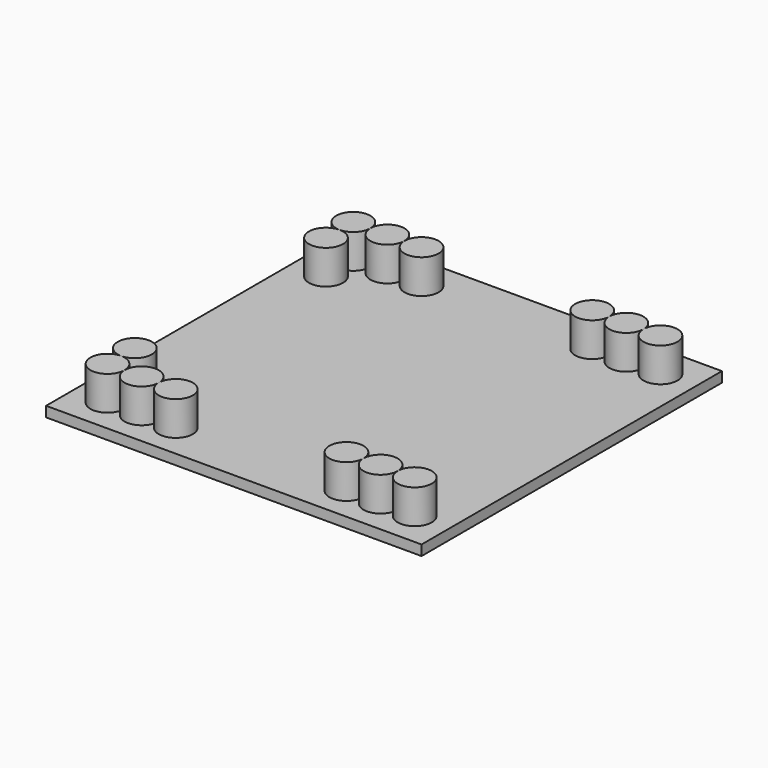
from build123d import *

# Parameters (mm, degrees)
SKETCH_W     = 110
SKETCH_H     = 110
PAD_DEPTH    = 3
SKETCH001_R  = 5
PAD001_DEPTH = 10


with BuildPart() as part:
    # Sketch → Pad (new body)
    with BuildSketch(Plane.XY):
        Rectangle(SKETCH_W, SKETCH_H)
    extrude(amount=PAD_DEPTH)

    # Sketch001 (on Face6 of Pad) → Pad001 (join)
    with BuildSketch(Plane.XY.offset(3)):
        with Locations((-45, 45)):
            Circle(SKETCH001_R)
        with Locations((45, 45)):
            Circle(SKETCH001_R)
        with Locations((45, -45)):
            Circle(SKETCH001_R)
        with Locations((-45, -45)):
            Circle(SKETCH001_R)
        with Locations((-35, 45)):
            Circle(SKETCH001_R)
        with Locations((-25, 45)):
            Circle(SKETCH001_R)
        with Locations((-45, 35)):
            Circle(SKETCH001_R)
        with Locations((35, 45)):
            Circle(SKETCH001_R)
        with Locations((25, 45)):
            Circle(SKETCH001_R)
        with Locations((-45, -35)):
            Circle(SKETCH001_R)
        with Locations((-35, -45)):
            Circle(SKETCH001_R)
        with Locations((-25, -45)):
            Circle(SKETCH001_R)
        with Locations((35, -45)):
            Circle(SKETCH001_R)
        with Locations((25, -45)):
            Circle(SKETCH001_R)
    extrude(amount=PAD001_DEPTH)


solid = part.part
